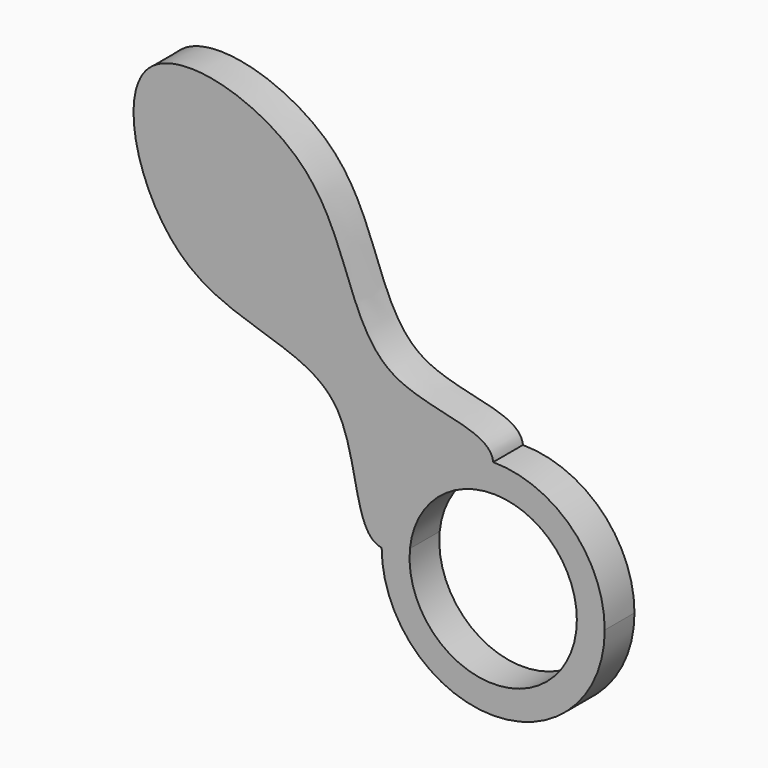
from build123d import *

# Parameters (mm, degrees)
F1_DEPTH = 2


with BuildPart() as f1:
    # F0 (on Front) → F1 (new body)
    with BuildSketch(Plane.XZ):
        with BuildLine():
            ThreePointArc((-0.4679961449, 4.4755982403), (3.0119775354, 3.3433503146), (4.5, 0))
            ThreePointArc((4.5, 0), (-0.2256718494, -4.4943377951), (-4.4773654295, 0.4507757875))
            add(Edge.make_bspline(
                [(-4.4773654295, 0.4507757875), (-5.0609188872, 0.1200553874), (-5.595364952, -0.0574948845), (-6, 0)],
                knots=[0.9671549028, 0.9671549028, 0.9671549028, 0.9671549028, 1, 1, 1, 1], degree=3))
            ThreePointArc((-6, 0), (0, -6), (6, 0))
            ThreePointArc((6, 0), (4.2426406871, 4.2426406871), (0, 6))
            add(Edge.make_bspline(
                [(0, 6), (0.0449537101, 5.5938577162), (-0.1373734004, 5.059013247), (-0.4679961449, 4.4755982403)],
                knots=[0.8533324508, 0.8533324508, 0.8533324508, 0.8533324508, 0.8859427479, 0.8859427479, 0.8859427479, 0.8859427479], degree=3))
        make_face()
        with BuildLine():
            ThreePointArc((-4.4773654295, 0.4507757875), (-3.1880949201, 3.1758543387), (-0.4679961449, 4.4755982403))
            add(Edge.make_bspline(
                [(0, 6), (0.0449537101, 5.5938577162), (-0.1373734004, 5.059013247), (-0.4679961449, 4.4755982403)],
                knots=[0.8533324508, 0.8533324508, 0.8533324508, 0.8533324508, 0.8859427479, 0.8859427479, 0.8859427479, 0.8859427479], degree=3))
            ThreePointArc((0, 6), (-4.2426406871, 4.2426406871), (-6, 0))
            add(Edge.make_bspline(
                [(-4.4773654295, 0.4507757875), (-5.0609188872, 0.1200553874), (-5.595364952, -0.0574948845), (-6, 0)],
                knots=[0.9671549028, 0.9671549028, 0.9671549028, 0.9671549028, 1, 1, 1, 1], degree=3))
        make_face()
        with BuildLine():
            ThreePointArc((-6, 0), (-4.2426406871, 4.2426406871), (0, 6))
            add(Edge.make_bspline(
                [(-6, 0), (-7.5709684679, 0.2232200375), (-6.7267953898, 8.465833757), (-17.8071694003, 7.5753246707), (-21.4521158816, 21.50945304), (-7.7005673572, 17.7428364419), (-7.8477493192, 6.8518089187), (-0.170015032, 7.5360310226), (0, 6)],
                knots=[0, 0, 0, 0, 0.1275188897, 0.2790904523, 0.4278118857, 0.5765333191, 0.7300002345, 0.8533324508, 0.8533324508, 0.8533324508, 0.8533324508], degree=3))
        make_face()
    extrude(amount=F1_DEPTH)


solid = f1.part
